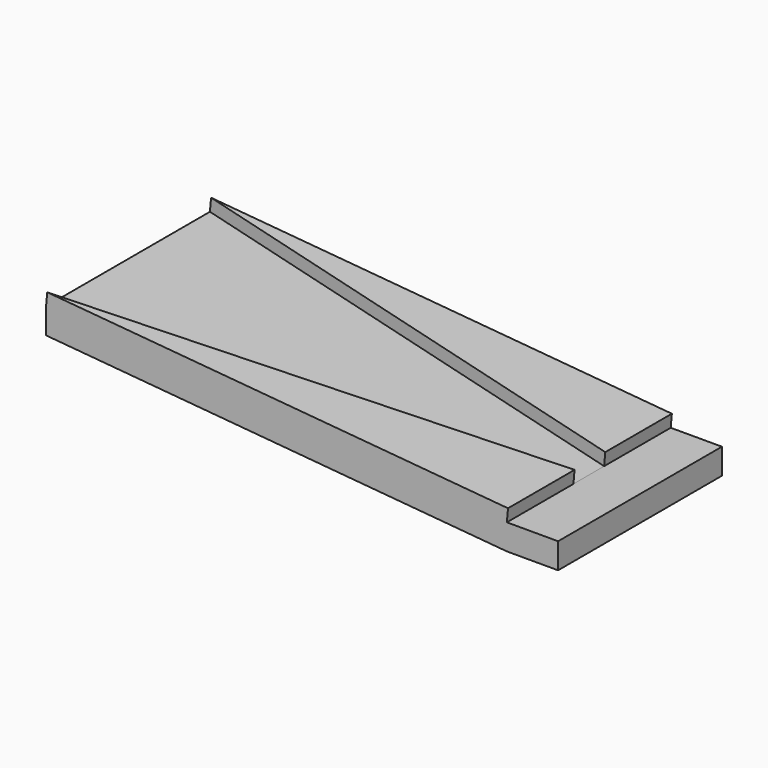
from build123d import *

# Parameters (mm, degrees)
F1_DEPTH = 101.6
F3_DEPTH = 6.35
F4_R     = 6.35
F5_DEPTH = 25.4
F6_R     = 6.35
F7_DEPTH = 6.35


with BuildPart() as f1:
    # F0 (on Front) → F1 (new body)
    with BuildSketch(Plane.XZ):
        Polygon((-25.4, 0), (0, 0), (0, 12.7), (-25.4, 12.7), (-254, 32.699908482), (-254, 19.999908482), align=None)
    extrude(amount=F1_DEPTH)

    # F2 (on face) → F3 (join)
    with BuildSketch(Plane(origin=(0.9097243914, 0, 10.3981973753), x_dir=(0.9961946981, 0, -0.0871557427), z_dir=(0.0871557427, 0, 0.9961946981))):
        Polygon((-26.4102232644, 0), (-255.8834381268, 0), (-26.4102232644, -41.275), align=None)
        Polygon((-26.4102232644, -60.325), (-255.8834381268, -101.6), (-26.4102232644, -101.6), align=None)
    extrude(amount=F3_DEPTH)

    # F4 (on Top) → F5 (cut)
    with BuildSketch(Plane.XY):
        with Locations((-228.6, -25.4)):
            Circle(F4_R)
        with Locations((-228.6, -76.2)):
            Circle(F4_R)
    extrude(amount=F5_DEPTH, mode=Mode.SUBTRACT)

    # F6 (on face) → F7 (cut)
    with BuildSketch(Plane(origin=(0, 0, 0), x_dir=(1, 0, 0), z_dir=(0, 0, -1))):
        with Locations((-12.7, 25.4)):
            Circle(F6_R)
        with Locations((-12.7, 76.2)):
            Circle(F6_R)
    extrude(amount=-F7_DEPTH, mode=Mode.SUBTRACT)


solid = f1.part
